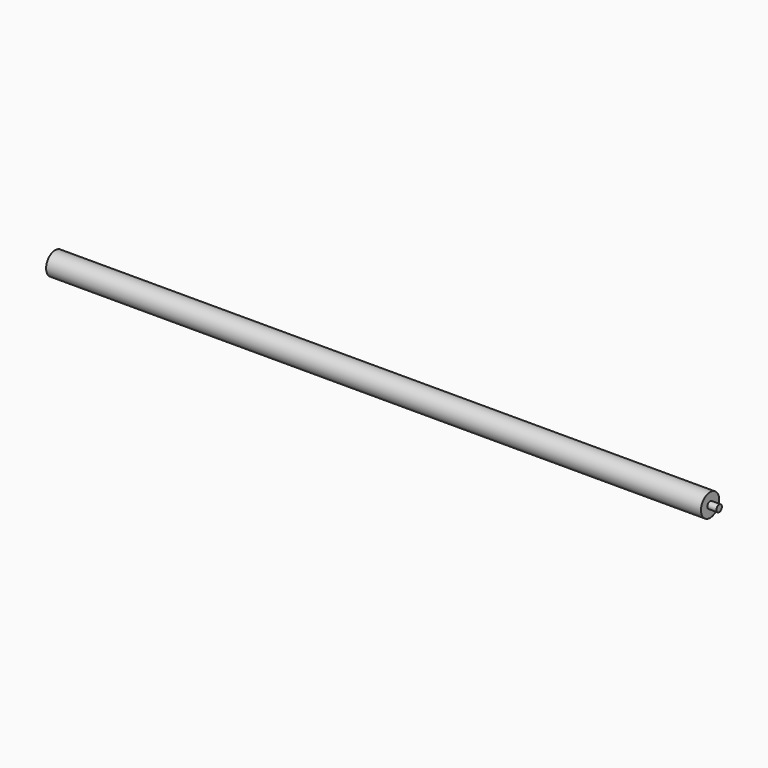
from build123d import *

# Parameters (mm, degrees)
F0_R     = 9.525
F1_DEPTH = 25.4
F2_R     = 31.75
F3_DEPTH = 1828.8


with BuildPart() as f1:
    # F0 (on Right) → F1 (new body)
    with BuildSketch(Plane.YZ):
        Circle(F0_R)
    extrude(amount=F1_DEPTH)

    # F2 (on face) → F3 (join)
    with BuildSketch(Plane(origin=(0, 0, 0), x_dir=(0, -1, 0), z_dir=(-1, 0, 0))):
        Circle(F2_R)
    extrude(amount=F3_DEPTH)


solid = f1.part
